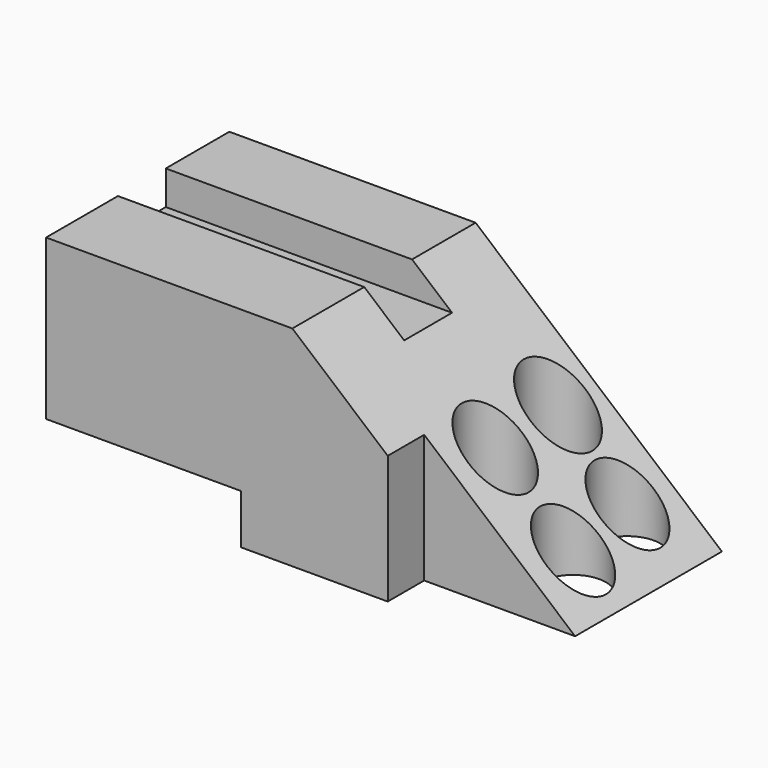
from build123d import *

# Parameters (mm, degrees)
F1_DEPTH = 38.1
F2_W     = 25.103066
F2_H     = 7.577248
F3_DEPTH = 25.4
F4_W     = 9.944637
F4_H     = 5.652566
F5_DEPTH = 228.6
F6_R     = 5.456635
F6_R_2   = 5.70769
F6_R_3   = 5.555233
F6_R_4   = 5.475629
F7_DEPTH = 101.6


with BuildPart() as f1:
    # F0 (on Front) → F1 (new body)
    with BuildSketch(Plane.XZ):
        Polygon((0, 17.413402), (-40.967319, 17.413402), (-40.967319, -9.164948), (-8.523404, -9.164948), (-8.523404, -17.413402), (40.967319, -17.413402), align=None)
    extrude(amount=-F1_DEPTH)

    # F2 (on face) → F3 (cut)
    with BuildSketch(Plane(origin=(0, 0, -17.413402), x_dir=(1, 0, 0), z_dir=(0, 0, -1))):
        with Locations((28.415786, -3.788624)):
            Rectangle(F2_W, F2_H)
    extrude(amount=-F3_DEPTH, mode=Mode.SUBTRACT)

    # F4 (on face) → F5 (cut)
    with BuildSketch(Plane(origin=(-40.967319, 0, 0), x_dir=(0, -1, 0), z_dir=(-1, 0, 0))):
        with Locations((-19.910272, 14.587119)):
            Rectangle(F4_W, F4_H)
    extrude(amount=-F5_DEPTH, mode=Mode.SUBTRACT)

    # F6 (on face) → F7 (cut)
    with BuildSketch(Plane(origin=(0, 0, -17.413402), x_dir=(1, 0, 0), z_dir=(0, 0, -1))):
        with Locations((32.08825, -29.554859)):
            Circle(F6_R)
        with Locations((19.997094, -30.228976)):
            Circle(F6_R_2)
        with Locations((20.558245, -16.475564)):
            Circle(F6_R_3)
        with Locations((33.392582, -16.614418)):
            Circle(F6_R_4)
    extrude(amount=-F7_DEPTH, mode=Mode.SUBTRACT)


solid = f1.part
